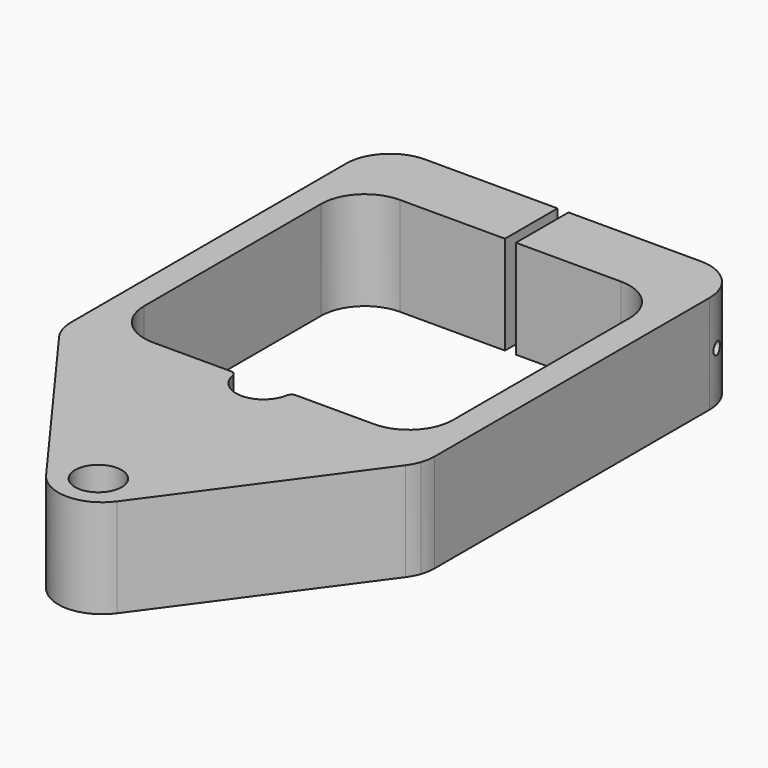
from build123d import *

# Parameters (mm, degrees)
F0_R     = 4.25
F1_DEPTH = 18
F2_R     = 1.1
F3_DEPTH = 66.401
F2_R_2   = 1.55
F4_DEPTH = 33.2
F5_DEPTH = 29.2


with BuildPart() as f1:
    # F0 (on Top) → F1 (new body)
    with BuildSketch(Plane.XY):
        with BuildLine():
            ThreePointArc((32.761219, -33.2), (33.089542, -31.911773), (33.2, -30.586961))
            Line((33.2, -30.586961), (33.2, 32.2))
            ThreePointArc((33.2, 32.2), (30.856854, 37.856854), (25.2, 40.2))
            Line((25.2, 40.2), (1, 40.2))
            Line((1, 40.2), (1, 33.2))
            Line((1, 33.2), (1, 28.2))
            Line((1, 28.2), (20.2, 28.2))
            ThreePointArc((20.2, 28.2), (25.856854, 25.856854), (28.2, 20.2))
            Line((28.2, 20.2), (28.2, -20.2))
            ThreePointArc((28.2, -20.2), (25.856854, -25.856854), (20.2, -28.2))
            Line((20.2, -28.2), (5.91608, -28.2))
            ThreePointArc((5.91608, -28.2), (5.270583, -28.436237), (4.930066, -29.033333))
            ThreePointArc((4.930066, -29.033333), (0, -33.2), (-4.930066, -29.033333))
            ThreePointArc((-4.930066, -29.033333), (-5.270583, -28.436237), (-5.91608, -28.2))
            Line((-5.91608, -28.2), (-20.2, -28.2))
            ThreePointArc((-20.2, -28.2), (-25.856854, -25.856854), (-28.2, -20.2))
            Line((-28.2, -20.2), (-28.2, 20.2))
            ThreePointArc((-28.2, 20.2), (-25.856854, 25.856854), (-20.2, 28.2))
            Line((-20.2, 28.2), (-1, 28.2))
            Line((-1, 28.2), (-1, 33.2))
            Line((-1, 33.2), (-1, 40.2))
            Line((-1, 40.2), (-25.2, 40.2))
            ThreePointArc((-25.2, 40.2), (-30.856854, 37.856854), (-33.2, 32.2))
            Line((-33.2, 32.2), (-33.2, -30.586961))
            ThreePointArc((-33.2, -30.586961), (-33.089542, -31.911773), (-32.761219, -33.2))
            ThreePointArc((-32.761219, -33.2), (-32.288285, -34.295898), (-31.657565, -35.309233))
            Line((-31.657565, -35.309233), (-6.457565, -69.769474))
            ThreePointArc((-6.457565, -69.769474), (0, -73.047202), (6.457565, -69.769474))
            Line((6.457565, -69.769474), (31.657565, -35.309233))
            ThreePointArc((31.657565, -35.309233), (32.288285, -34.295898), (32.761219, -33.2))
        make_face()
        with Locations((0, -65.9)):
            Circle(F0_R, mode=Mode.SUBTRACT)
    extrude(amount=F1_DEPTH)

    # F2 (on face) → F3 (cut, through all)
    with BuildSketch(Plane(origin=(-33.2, 0, 0), x_dir=(0, -1, 0), z_dir=(-1, 0, 0))):
        with Locations((-34.2, 9)):
            Circle(F2_R)
    extrude(amount=-F3_DEPTH, mode=Mode.SUBTRACT)

    # F2 (on face) → F4 (cut)
    with BuildSketch(Plane(origin=(-33.2, 0, 0), x_dir=(0, -1, 0), z_dir=(-1, 0, 0))):
        with Locations((-34.2, 9)):
            Circle(F2_R_2)
        with Locations((-34.2, 9)):
            Circle(F2_R, mode=Mode.SUBTRACT)
    extrude(amount=-F4_DEPTH, mode=Mode.SUBTRACT)

    # F2 (on face) → F5 (cut)
    with BuildSketch(Plane(origin=(-33.2, 0, 0), x_dir=(0, -1, 0), z_dir=(-1, 0, 0))):
        with BuildLine():
            Line((-32.2, 5.651866), (-32.2, 12.348134))
            ThreePointArc((-32.2, 12.348134), (-38.1, 9), (-32.2, 5.651866))
        make_face()
        with Locations((-34.2, 9)):
            Circle(F2_R_2, mode=Mode.SUBTRACT)
        with BuildLine():
            ThreePointArc((-32.2, 5.651866), (-30.808098, 7.075162), (-30.3, 9))
            ThreePointArc((-30.3, 9), (-30.808098, 10.924838), (-32.2, 12.348134))
            Line((-32.2, 12.348134), (-32.2, 5.651866))
        make_face()
    extrude(amount=-F5_DEPTH, mode=Mode.SUBTRACT)


solid = f1.part
